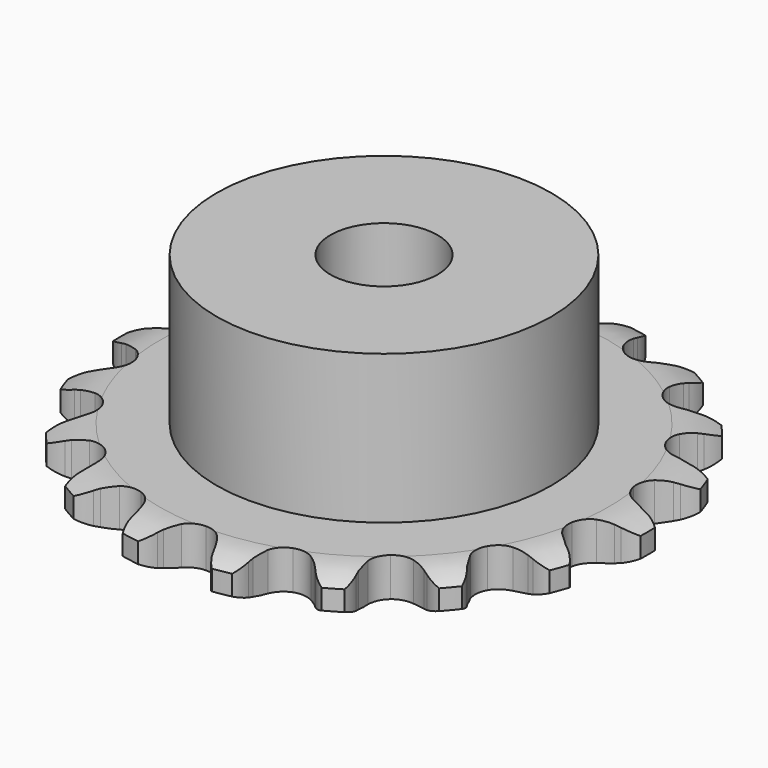
from build123d import *

# Parameters (mm, degrees)
PAD_DEPTH         = 2.9
SKETCH001_R       = 12.5
PAD001_DEPTH      = 14
SKETCH002_R       = 4
POCKET_DEPTH      = 0.0010001
POCKET_DEPTH_BACK = 14.001


with BuildPart() as part:
    # Sprocket → Pad (new body)
    with BuildSketch(Plane.XY):
        with BuildLine():
            ThreePointArc((-3.5245457141, 19.9886920309), (-2.6548484627, 19.4169342152), (-2.0649937746, 18.5594076816))
            Line((-2.0649937746, 18.5594076816), (-1.9075108262, 18.1962591789))
            ThreePointArc((-1.9075108262, 18.1962591789), (-1.6504441802, 17.6953449859), (-1.3306435132, 17.2319598084))
            ThreePointArc((-1.3306435132, 17.2319598084), (-0.7391926718, 16.7572703226), (0, 16.587746284))
            ThreePointArc((0, 16.587746284), (0.7391926718, 16.7572703226), (1.3306435132, 17.2319598084))
            ThreePointArc((1.3306435132, 17.2319598084), (1.6504441802, 17.6953449859), (1.9075108262, 18.1962591789))
            Line((1.9075108262, 18.1962591789), (2.0649937746, 18.5594076816))
            ThreePointArc((2.0649937746, 18.5594076816), (2.6548484627, 19.4169342152), (3.5245457141, 19.9886920309))
            ThreePointArc((3.5245457141, 19.9886920309), (4.1462411135, 19.1539614521), (4.4072318634, 18.1464079113))
            Line((4.4072318634, 18.1464079113), (4.4310133249, 17.7512976025))
            ThreePointArc((4.4310133249, 17.7512976025), (4.5012542111, 17.1926702605), (4.6432814732, 16.6478523587))
            ThreePointArc((4.6432814732, 16.6478523587), (5.0367100984, 15.9995020502), (5.6733433615, 15.5873827785))
            ThreePointArc((5.6733433615, 15.5873827785), (6.4259378965, 15.4938644831), (7.1440732537, 15.7376385885))
            Line((7.1440732537, 15.7376385885), (8.0159610198, 16.4464833501))
            ThreePointArc((8.0159610198, 16.4464833501), (8.1487750465, 16.5932834933), (8.2881506872, 16.7338689779))
            ThreePointArc((8.2881506872, 16.7338689779), (9.135724133, 17.3379381486), (10.1485249125, 17.5777607703))
            ThreePointArc((10.1485249125, 17.5777607703), (10.4472328194, 16.5807382554), (10.3478802948, 15.5446835345))
            Line((10.3478802948, 15.5446835345), (10.2350918742, 15.165267554))
            ThreePointArc((10.2350918742, 15.165267554), (10.1100349131, 14.616305765), (10.0571581864, 14.0557682184))
            ThreePointArc((10.0571581864, 14.0557682184), (10.2051112969, 13.311957703), (10.662397784, 12.7069508647))
            ThreePointArc((10.662397784, 12.7069508647), (11.3376201741, 12.3616699218), (12.0958223245, 12.3451258921))
            Line((12.0958223245, 12.3451258921), (13.1575680115, 12.7130189051))
            ThreePointArc((13.1575680115, 12.7130189051), (13.3325809783, 12.8055408439), (13.511634307, 12.8899787097))
            ThreePointArc((13.511634307, 12.8899787097), (14.5146966438, 13.1677308605), (15.5484422302, 13.0466921407))
            ThreePointArc((15.5484422302, 13.0466921407), (15.4881340626, 12.0076333195), (15.0404216442, 11.0680409083))
            Line((15.0404216442, 11.0680409083), (14.8046672897, 10.750082423))
            ThreePointArc((14.8046672897, 10.750082423), (14.4993961964, 10.2769990805), (14.2579931944, 9.76835099))
            ThreePointArc((14.2579931944, 9.76835099), (14.1426254615, 9.0187947934), (14.3654096735, 8.293873142))
            ThreePointArc((14.3654096735, 8.293873142), (14.8818181333, 7.7384755292), (15.5886367076, 7.4636088184))
            Line((15.5886367076, 7.4636088184), (16.7121781159, 7.4461767559))
            ThreePointArc((16.7121781159, 7.4461767559), (16.9082808761, 7.4732609791), (17.1054154188, 7.4913667734))
            ThreePointArc((17.1054154188, 7.4913667734), (18.1429825254, 7.4093008957), (19.0729879443, 6.9419998902))
            ThreePointArc((19.0729879443, 6.9419998902), (18.6609377573, 5.9862305915), (17.9188661704, 5.2564292016))
            Line((17.9188661704, 5.2564292016), (17.5885813364, 5.0382786974))
            ThreePointArc((17.5885813364, 5.0382786974), (17.1399163101, 4.6981346345), (16.7391037977, 4.3027264666))
            ThreePointArc((16.7391037977, 4.3027264666), (16.3743302726, 3.6378321283), (16.3357411455, 2.8804319138))
            ThreePointArc((16.3357411455, 2.8804319138), (16.6310491934, 2.18190678), (17.2012314401, 1.6818703701))
            Line((17.2012314401, 1.6818703701), (18.2510528941, 1.2812157961))
            ThreePointArc((18.2510528941, 1.2812157961), (18.4445925606, 1.2395955466), (18.636030982, 1.1891854434))
            ThreePointArc((18.636030982, 1.1891854434), (19.5829569524, 0.7571998932), (20.297049825, 0))
            ThreePointArc((20.297049825, 0), (19.5829569524, -0.7571998932), (18.636030982, -1.1891854434))
            Line((18.636030982, -1.1891854434), (18.2510528941, -1.2812157961))
            ThreePointArc((18.2510528941, -1.2812157961), (17.7131095585, -1.4473941854), (17.2012314401, -1.6818703701))
            ThreePointArc((17.2012314401, -1.6818703701), (16.6310491934, -2.18190678), (16.3357411455, -2.8804319138))
            ThreePointArc((16.3357411455, -2.8804319138), (16.3743302726, -3.6378321283), (16.7391037977, -4.3027264666))
            Line((16.7391037977, -4.3027264666), (17.5885813364, -5.0382786974))
            ThreePointArc((17.5885813364, -5.0382786974), (17.7562141691, -5.1435834033), (17.9188661704, -5.2564292016))
            ThreePointArc((17.9188661704, -5.2564292016), (18.6609377573, -5.9862305915), (19.0729879443, -6.9419998902))
            ThreePointArc((19.0729879443, -6.9419998902), (18.1429825254, -7.4093008957), (17.1054154188, -7.4913667734))
            Line((17.1054154188, -7.4913667734), (16.7121781159, -7.4461767559))
            ThreePointArc((16.7121781159, -7.4461767559), (16.1498403766, -7.4183459054), (15.5886367076, -7.4636088184))
            ThreePointArc((15.5886367076, -7.4636088184), (14.8818181333, -7.7384755292), (14.3654096735, -8.293873142))
            ThreePointArc((14.3654096735, -8.293873142), (14.1426254615, -9.0187947934), (14.2579931944, -9.76835099))
            Line((14.2579931944, -9.76835099), (14.8046672897, -10.750082423))
            ThreePointArc((14.8046672897, -10.750082423), (14.926174295, -10.9063702835), (15.0404216442, -11.0680409083))
            ThreePointArc((15.0404216442, -11.0680409083), (15.4881340626, -12.0076333195), (15.5484422302, -13.0466921407))
            ThreePointArc((15.5484422302, -13.0466921407), (14.5146966438, -13.1677308605), (13.511634307, -12.8899787097))
            Line((13.511634307, -12.8899787097), (13.1575680115, -12.7130189051))
            ThreePointArc((13.1575680115, -12.7130189051), (12.6386620989, -12.494535626), (12.0958223245, -12.3451258921))
            ThreePointArc((12.0958223245, -12.3451258921), (11.3376201741, -12.3616699218), (10.662397784, -12.7069508647))
            ThreePointArc((10.662397784, -12.7069508647), (10.2051112969, -13.311957703), (10.0571581864, -14.0557682184))
            Line((10.0571581864, -14.0557682184), (10.2350918742, -15.165267554))
            ThreePointArc((10.2350918742, -15.165267554), (10.2958175141, -15.3536879467), (10.3478802948, -15.5446835345))
            ThreePointArc((10.3478802948, -15.5446835345), (10.4472328194, -16.5807382554), (10.1485249125, -17.5777607703))
            ThreePointArc((10.1485249125, -17.5777607703), (9.135724133, -17.3379381486), (8.2881506872, -16.7338689779))
            Line((8.2881506872, -16.7338689779), (8.0159610198, -16.4464833501))
            ThreePointArc((8.0159610198, -16.4464833501), (7.6030746454, -16.0636999504), (7.1440732537, -15.7376385885))
            ThreePointArc((7.1440732537, -15.7376385885), (6.4259378965, -15.4938644831), (5.6733433615, -15.5873827785))
            ThreePointArc((5.6733433615, -15.5873827785), (5.0367100984, -15.9995020502), (4.6432814732, -16.6478523587))
            Line((4.6432814732, -16.6478523587), (4.4310133249, -17.7512976025))
            ThreePointArc((4.4310133249, -17.7512976025), (4.4236331909, -17.9491242471), (4.4072318634, -18.1464079113))
            ThreePointArc((4.4072318634, -18.1464079113), (4.1462411135, -19.1539614521), (3.5245457141, -19.9886920309))
            ThreePointArc((3.5245457141, -19.9886920309), (2.6548484627, -19.4169342152), (2.0649937746, -18.5594076816))
            Line((2.0649937746, -18.5594076816), (1.9075108262, -18.1962591789))
            ThreePointArc((1.9075108262, -18.1962591789), (1.6504441802, -17.6953449859), (1.3306435132, -17.2319598084))
            ThreePointArc((1.3306435132, -17.2319598084), (0.7391926718, -16.7572703226), (0, -16.587746284))
            ThreePointArc((0, -16.587746284), (-0.7391926718, -16.7572703226), (-1.3306435132, -17.2319598084))
            Line((-1.3306435132, -17.2319598084), (-1.9075108262, -18.1962591789))
            ThreePointArc((-1.9075108262, -18.1962591789), (-1.9821065811, -18.3796312626), (-2.0649937746, -18.5594076816))
            ThreePointArc((-2.0649937746, -18.5594076816), (-2.6548484627, -19.4169342152), (-3.5245457141, -19.9886920309))
            ThreePointArc((-3.5245457141, -19.9886920309), (-4.1462411135, -19.1539614521), (-4.4072318634, -18.1464079113))
            Line((-4.4072318634, -18.1464079113), (-4.4310133249, -17.7512976025))
            ThreePointArc((-4.4310133249, -17.7512976025), (-4.5012542111, -17.1926702605), (-4.6432814732, -16.6478523587))
            ThreePointArc((-4.6432814732, -16.6478523587), (-5.0367100984, -15.9995020502), (-5.6733433615, -15.5873827785))
            ThreePointArc((-5.6733433615, -15.5873827785), (-6.4259378965, -15.4938644831), (-7.1440732537, -15.7376385885))
            Line((-7.1440732537, -15.7376385885), (-8.0159610198, -16.4464833501))
            ThreePointArc((-8.0159610198, -16.4464833501), (-8.1487750465, -16.5932834933), (-8.2881506872, -16.7338689779))
            ThreePointArc((-8.2881506872, -16.7338689779), (-9.135724133, -17.3379381486), (-10.1485249125, -17.5777607703))
            ThreePointArc((-10.1485249125, -17.5777607703), (-10.4472328194, -16.5807382554), (-10.3478802948, -15.5446835345))
            Line((-10.3478802948, -15.5446835345), (-10.2350918742, -15.165267554))
            ThreePointArc((-10.2350918742, -15.165267554), (-10.1100349131, -14.616305765), (-10.0571581864, -14.0557682184))
            ThreePointArc((-10.0571581864, -14.0557682184), (-10.2051112969, -13.311957703), (-10.662397784, -12.7069508647))
            ThreePointArc((-10.662397784, -12.7069508647), (-11.3376201741, -12.3616699218), (-12.0958223245, -12.3451258921))
            Line((-12.0958223245, -12.3451258921), (-13.1575680115, -12.7130189051))
            ThreePointArc((-13.1575680115, -12.7130189051), (-13.3325809783, -12.8055408439), (-13.511634307, -12.8899787097))
            ThreePointArc((-13.511634307, -12.8899787097), (-14.5146966438, -13.1677308605), (-15.5484422302, -13.0466921407))
            ThreePointArc((-15.5484422302, -13.0466921407), (-15.4881340626, -12.0076333195), (-15.0404216442, -11.0680409083))
            Line((-15.0404216442, -11.0680409083), (-14.8046672897, -10.750082423))
            ThreePointArc((-14.8046672897, -10.750082423), (-14.4993961964, -10.2769990805), (-14.2579931944, -9.76835099))
            ThreePointArc((-14.2579931944, -9.76835099), (-14.1426254615, -9.0187947934), (-14.3654096735, -8.293873142))
            ThreePointArc((-14.3654096735, -8.293873142), (-14.8818181333, -7.7384755292), (-15.5886367076, -7.4636088184))
            Line((-15.5886367076, -7.4636088184), (-16.7121781159, -7.4461767559))
            ThreePointArc((-16.7121781159, -7.4461767559), (-16.9082808761, -7.4732609791), (-17.1054154188, -7.4913667734))
            ThreePointArc((-17.1054154188, -7.4913667734), (-18.1429825254, -7.4093008957), (-19.0729879443, -6.9419998902))
            ThreePointArc((-19.0729879443, -6.9419998902), (-18.6609377573, -5.9862305915), (-17.9188661704, -5.2564292016))
            Line((-17.9188661704, -5.2564292016), (-17.5885813364, -5.0382786974))
            ThreePointArc((-17.5885813364, -5.0382786974), (-17.1399163101, -4.6981346345), (-16.7391037977, -4.3027264666))
            ThreePointArc((-16.7391037977, -4.3027264666), (-16.3743302726, -3.6378321283), (-16.3357411455, -2.8804319138))
            ThreePointArc((-16.3357411455, -2.8804319138), (-16.6310491934, -2.18190678), (-17.2012314401, -1.6818703701))
            Line((-17.2012314401, -1.6818703701), (-18.2510528941, -1.2812157961))
            ThreePointArc((-18.2510528941, -1.2812157961), (-18.4445925606, -1.2395955466), (-18.636030982, -1.1891854434))
            ThreePointArc((-18.636030982, -1.1891854434), (-19.5829569524, -0.7571998932), (-20.297049825, 0))
            ThreePointArc((-20.297049825, 0), (-19.5829569524, 0.7571998932), (-18.636030982, 1.1891854434))
            Line((-18.636030982, 1.1891854434), (-18.2510528941, 1.2812157961))
            ThreePointArc((-18.2510528941, 1.2812157961), (-17.7131095585, 1.4473941854), (-17.2012314401, 1.6818703701))
            ThreePointArc((-17.2012314401, 1.6818703701), (-16.6310491934, 2.18190678), (-16.3357411455, 2.8804319138))
            ThreePointArc((-16.3357411455, 2.8804319138), (-16.3743302726, 3.6378321283), (-16.7391037977, 4.3027264666))
            Line((-16.7391037977, 4.3027264666), (-17.5885813364, 5.0382786974))
            ThreePointArc((-17.5885813364, 5.0382786974), (-17.7562141691, 5.1435834033), (-17.9188661704, 5.2564292016))
            ThreePointArc((-17.9188661704, 5.2564292016), (-18.6609377573, 5.9862305915), (-19.0729879443, 6.9419998902))
            ThreePointArc((-19.0729879443, 6.9419998902), (-18.1429825254, 7.4093008957), (-17.1054154188, 7.4913667734))
            Line((-17.1054154188, 7.4913667734), (-16.7121781159, 7.4461767559))
            ThreePointArc((-16.7121781159, 7.4461767559), (-16.1498403766, 7.4183459054), (-15.5886367076, 7.4636088184))
            ThreePointArc((-15.5886367076, 7.4636088184), (-14.8818181333, 7.7384755292), (-14.3654096735, 8.293873142))
            ThreePointArc((-14.3654096735, 8.293873142), (-14.1426254615, 9.0187947934), (-14.2579931944, 9.76835099))
            Line((-14.2579931944, 9.76835099), (-14.8046672897, 10.750082423))
            ThreePointArc((-14.8046672897, 10.750082423), (-14.926174295, 10.9063702835), (-15.0404216442, 11.0680409083))
            ThreePointArc((-15.0404216442, 11.0680409083), (-15.4881340626, 12.0076333195), (-15.5484422302, 13.0466921407))
            ThreePointArc((-15.5484422302, 13.0466921407), (-14.5146966438, 13.1677308605), (-13.511634307, 12.8899787097))
            Line((-13.511634307, 12.8899787097), (-13.1575680115, 12.7130189051))
            ThreePointArc((-13.1575680115, 12.7130189051), (-12.6386620989, 12.494535626), (-12.0958223245, 12.3451258921))
            ThreePointArc((-12.0958223245, 12.3451258921), (-11.3376201741, 12.3616699218), (-10.662397784, 12.7069508647))
            ThreePointArc((-10.662397784, 12.7069508647), (-10.2051112969, 13.311957703), (-10.0571581864, 14.0557682184))
            Line((-10.0571581864, 14.0557682184), (-10.2350918742, 15.165267554))
            ThreePointArc((-10.2350918742, 15.165267554), (-10.2958175141, 15.3536879467), (-10.3478802948, 15.5446835345))
            ThreePointArc((-10.3478802948, 15.5446835345), (-10.4472328194, 16.5807382554), (-10.1485249125, 17.5777607703))
            ThreePointArc((-10.1485249125, 17.5777607703), (-9.135724133, 17.3379381486), (-8.2881506872, 16.7338689779))
            Line((-8.2881506872, 16.7338689779), (-8.0159610198, 16.4464833501))
            ThreePointArc((-8.0159610198, 16.4464833501), (-7.6030746454, 16.0636999504), (-7.1440732537, 15.7376385885))
            ThreePointArc((-7.1440732537, 15.7376385885), (-6.4259378965, 15.4938644831), (-5.6733433615, 15.5873827785))
            ThreePointArc((-5.6733433615, 15.5873827785), (-5.0367100984, 15.9995020502), (-4.6432814732, 16.6478523587))
            Line((-4.6432814732, 16.6478523587), (-4.4310133249, 17.7512976025))
            ThreePointArc((-4.4310133249, 17.7512976025), (-4.4236331909, 17.9491242471), (-4.4072318634, 18.1464079113))
            ThreePointArc((-4.4072318634, 18.1464079113), (-4.1462411135, 19.1539614521), (-3.5245457141, 19.9886920309))
        make_face()
    extrude(amount=PAD_DEPTH)

    # Sketch → Groove (revolve, cut)
    with BuildSketch(Plane.XZ):
        with BuildLine():
            Line((16.7896735578, 0), (19.7, 0))
            Line((22.6103264422, 0), (19.7, 0))
            Line((22.6103264422, 2.9), (22.6103264422, 0))
            Line((19.7, 2.9), (22.6103264422, 2.9))
            Line((16.7896735578, 2.9), (19.7, 2.9))
            ThreePointArc((19.7, 2.2), (18.2863365125, 2.7225396744), (16.7896735578, 2.9))
            Line((19.7, 0.7), (19.7, 2.2))
            ThreePointArc((16.7896735578, 0), (18.2863365125, 0.1774603256), (19.7, 0.7))
        make_face()
    revolve(axis=Axis((0, 0, 0), (0, 0, 1)), mode=Mode.SUBTRACT)

    # Sketch001 → Pad001 (join)
    with BuildSketch(Plane.XY):
        Circle(SKETCH001_R)
    extrude(amount=PAD001_DEPTH)

    # Sketch002 → Pocket (cut, two sides)
    with BuildSketch(Plane.XY) as pocket_sk:
        Circle(SKETCH002_R)
    extrude(amount=-POCKET_DEPTH, mode=Mode.SUBTRACT)
    extrude(pocket_sk.sketch, amount=POCKET_DEPTH_BACK, mode=Mode.SUBTRACT)


solid = part.part
